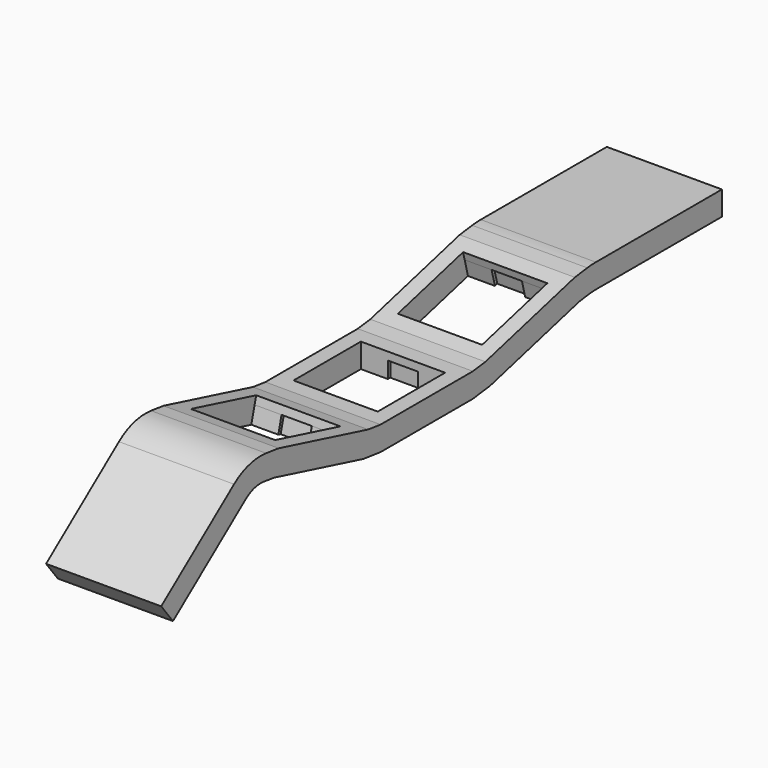
from build123d import *

# Parameters (mm, degrees)
SKETCH005_W  = 13.9
SKETCH005_H  = 13.9
PAD006_DEPTH = 10
SKETCH006_W  = 13.9
SKETCH006_H  = 13.9
PAD007_DEPTH = 1.3
PAD008_DEPTH = 2.7
PAD009_DEPTH = 10
SKETCH009_W  = 13.9
SKETCH009_H  = 13.9
PAD011_DEPTH = 10
SKETCH010_W  = 13.9
SKETCH010_H  = 13.9
PAD012_DEPTH = 1.3
PAD013_DEPTH = 2.7
PAD014_DEPTH = 10
SKETCH001_W  = 13.9
SKETCH001_H  = 13.9
PAD001_DEPTH = 10
SKETCH002_W  = 13.9
SKETCH002_H  = 13.9
PAD002_DEPTH = 1.3
PAD003_DEPTH = 2.7
PAD004_DEPTH = 10
PAD015_DEPTH = 9.5


with BuildPart() as subtractormiddle:
    with BuildSketch(Plane(origin=(0, 0.025, 2), x_dir=(0, -1, 0), z_dir=(0, 0, 1))):
        Rectangle(SKETCH005_W, SKETCH005_H)
    extrude(amount=PAD006_DEPTH)

    # Sketch006 (on Face5 of Pad006) → Pad007 (join)
    with BuildSketch(Plane(origin=(0, 0.025, 2), x_dir=(0, -1, 0), z_dir=(0, 0, -1))):
        Rectangle(SKETCH006_W, SKETCH006_H)
    extrude(amount=PAD007_DEPTH)

    # Sketch007 (on Face9 of Pad007) → Pad008 (join)
    with BuildSketch(Plane(origin=(0, 0.025, 0.7), x_dir=(0, -1, 0), z_dir=(0, 0, -1))):
        Polygon((-6.95, 6.95), (-6.95, 2.5), (-7.45, 2.5), (-7.45, -2.5), (-6.95, -2.5), (-6.95, -6.95), (6.95, -6.95), (6.95, -2.5), (7.45, -2.5), (7.45, 2.5), (6.95, 2.5), (6.95, 6.95), align=None)
    extrude(amount=PAD008_DEPTH)

    # Sketch007 (on Face9 of Pad007) → Pad009 (join)
    with BuildSketch(Plane(origin=(0, 0.025, 0.7), x_dir=(0, -1, 0), z_dir=(0, 0, -1))):
        Polygon((-6.95, 6.95), (-6.95, 2.5), (-7.45, 2.5), (-7.45, -2.5), (-6.95, -2.5), (-6.95, -6.95), (6.95, -6.95), (6.95, -2.5), (7.45, -2.5), (7.45, 2.5), (6.95, 2.5), (6.95, 6.95), align=None)
    extrude(amount=PAD009_DEPTH)


with BuildPart() as subtractorbottom:
    with BuildSketch(Plane(origin=(0, -21.350023, 4.719246), x_dir=(0, -0.968148, 0.25038), z_dir=(0, 0.25038, 0.968148))):
        Rectangle(SKETCH009_W, SKETCH009_H)
    extrude(amount=PAD011_DEPTH)

    # Sketch010 (on Face5 of Pad011) → Pad012 (join)
    with BuildSketch(Plane(origin=(0, -21.350023, 4.719246), x_dir=(0, -0.968148, 0.25038), z_dir=(0, -0.25038, -0.968148))):
        Rectangle(SKETCH010_W, SKETCH010_H)
    extrude(amount=PAD012_DEPTH)

    # Sketch011 (on Face9 of Pad012) → Pad013 (join)
    with BuildSketch(Plane(origin=(0, -21.675517, 3.460654), x_dir=(0, -0.968148, 0.25038), z_dir=(0, -0.25038, -0.968148))):
        Polygon((-6.95, 6.95), (-6.95, 2.5), (-7.45, 2.5), (-7.45, -2.5), (-6.95, -2.5), (-6.95, -6.95), (6.95, -6.95), (6.95, -2.5), (7.45, -2.5), (7.45, 2.5), (6.95, 2.5), (6.95, 6.95), align=None)
    extrude(amount=PAD013_DEPTH)

    # Sketch011 (on Face9 of Pad012) → Pad014 (join)
    with BuildSketch(Plane(origin=(0, -21.675517, 3.460654), x_dir=(0, -0.968148, 0.25038), z_dir=(0, -0.25038, -0.968148))):
        Polygon((-6.95, 6.95), (-6.95, 2.5), (-7.45, 2.5), (-7.45, -2.5), (-6.95, -2.5), (-6.95, -6.95), (6.95, -6.95), (6.95, -2.5), (7.45, -2.5), (7.45, 2.5), (6.95, 2.5), (6.95, 6.95), align=None)
    extrude(amount=PAD014_DEPTH)


with BuildPart() as refinedsubtractorcompound2:
    with BuildSketch(Plane(origin=(0.025, 21.301615, 4.706727), x_dir=(0, -0.968148, -0.25038), z_dir=(0, -0.25038, 0.968148))):
        Rectangle(SKETCH001_W, SKETCH001_H)
    extrude(amount=PAD001_DEPTH)

    # Sketch002 (on Face5 of Pad001) → Pad002 (join)
    with BuildSketch(Plane(origin=(0.025, 21.301615, 4.706727), x_dir=(0, -0.968148, -0.25038), z_dir=(0, 0.25038, -0.968148))):
        Rectangle(SKETCH002_W, SKETCH002_H)
    extrude(amount=PAD002_DEPTH)

    # Sketch003 (on Face9 of Pad002) → Pad003 (join)
    with BuildSketch(Plane(origin=(0.025, 21.627109, 3.448135), x_dir=(0, -0.968148, -0.25038), z_dir=(0, 0.25038, -0.968148))):
        Polygon((-6.95, 6.95), (-6.95, 2.5), (-7.45, 2.5), (-7.45, -2.5), (-6.95, -2.5), (-6.95, -6.95), (6.95, -6.95), (6.95, -2.5), (7.45, -2.5), (7.45, 2.5), (6.95, 2.5), (6.95, 6.95), align=None)
    extrude(amount=PAD003_DEPTH)

    # Sketch003 (on Face9 of Pad002) → Pad004 (join)
    with BuildSketch(Plane(origin=(0.025, 21.627109, 3.448135), x_dir=(0, -0.968148, -0.25038), z_dir=(0, 0.25038, -0.968148))):
        Polygon((-6.95, 6.95), (-6.95, 2.5), (-7.45, 2.5), (-7.45, -2.5), (-6.95, -2.5), (-6.95, -6.95), (6.95, -6.95), (6.95, -2.5), (7.45, -2.5), (7.45, 2.5), (6.95, 2.5), (6.95, 6.95), align=None)
    extrude(amount=PAD004_DEPTH)

    # Compound: union SubtractorMiddle, SubtractorBottom
    add(subtractormiddle.part)
    add(subtractorbottom.part)


with BuildPart() as obj1:
    # Sketch012 → Pad015 (new body, symmetric)
    with BuildSketch(Plane.YZ):
        with BuildLine():
            Line((-9.525, 2), (9.525, 2))
            Line((9.525, 2), (12.104213, 2.328117))
            Line((12.104213, 2.328117), (30.547425, 7.097856))
            Line((30.547425, 7.097856), (33.126638, 7.425974))
            ThreePointArc((34.889388, 7.537649), (34.006246, 7.509702), (33.126638, 7.425974))
            Line((60.889388, 7.537649), (34.889388, 7.537649))
            Line((60.889388, 3.569629), (60.889388, 7.537649))
            Line((34.889388, 3.569629), (60.889388, 3.569629))
            ThreePointArc((34.889388, 3.569629), (34.257128, 3.549621), (33.627398, 3.489678))
            Line((31.548945, 3.225266), (33.627398, 3.489678))
            Line((13.105733, -1.544473), (31.548945, 3.225266))
            Line((9.525, -2), (13.105733, -1.544473))
            Line((-9.525, -2), (9.525, -2))
            Line((-13.105733, -1.544473), (-9.525, -2))
            Line((-31.548945, 3.225266), (-13.105733, -1.544473))
            Line((-31.548945, 3.225266), (-33.627398, 3.489678))
            ThreePointArc((-33.627398, 3.489678), (-35.573549, 3.35359), (-37.31948, 2.483102))
            Line((-52.342581, -9.149027), (-37.31948, 2.483102))
            Line((-54.771872, -6.011555), (-52.342581, -9.149027))
            Line((-39.74877, 5.620573), (-54.771872, -6.011555))
            ThreePointArc((-33.126638, 7.425974), (-36.617262, 7.181886), (-39.74877, 5.620573))
            Line((-30.547425, 7.097856), (-33.126638, 7.425974))
            Line((-12.104213, 2.328117), (-30.547425, 7.097856))
            Line((-9.525, 2), (-12.104213, 2.328117))
        make_face()
    extrude(amount=PAD015_DEPTH, both=True)

    # Cut002: cut RefinedSubtractorCompound2
    add(refinedsubtractorcompound2.part, mode=Mode.SUBTRACT)


solid = obj1.part
